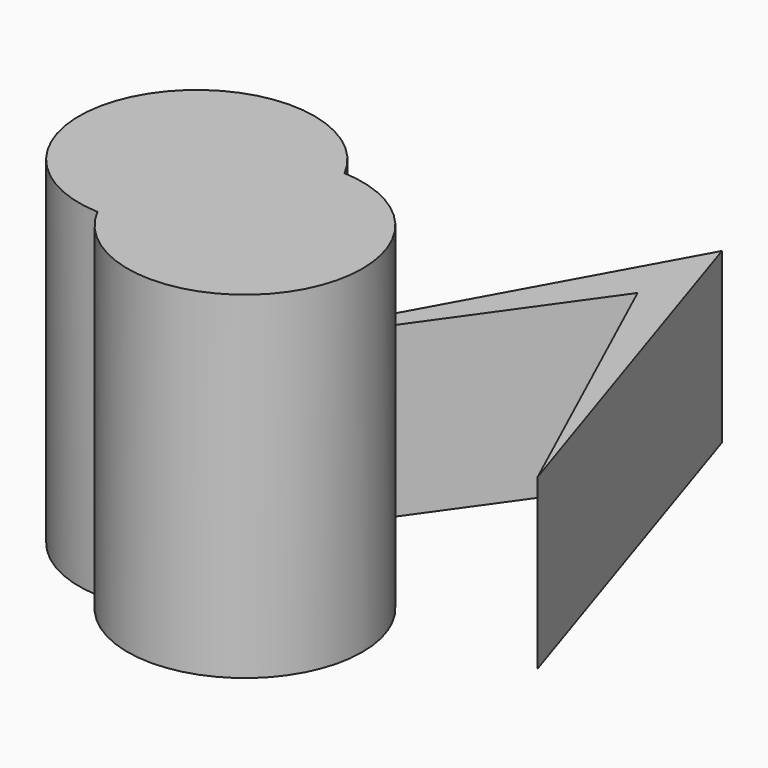
from build123d import *

# Parameters (mm, degrees)
F1_DEPTH = 25.4
F3_DEPTH = 25.4


with BuildPart() as f1:
    # F0 (on Top) → F1 (new body, symmetric)
    with BuildSketch(Plane.XY):
        with BuildLine():
            ThreePointArc((-0.801998148, -17.6953381212), (19.0800418459, -26.7126612322), (32.5603826172, -9.5403566957))
            ThreePointArc((32.5603826172, -9.5403566957), (27.683802609, 2.6512033834), (15.7445476087, 8.1164901805))
            ThreePointArc((15.7445476087, 8.1164901805), (17.2142279119, 4.1759489519), (17.7135031051, 0))
            ThreePointArc((17.7135031051, 0), (12.2385047201, -12.8057484931), (-0.801998148, -17.6953381212))
        make_face()
        with BuildLine():
            ThreePointArc((17.7135031051, 0), (17.2142279119, 4.1759489519), (15.7445476087, 8.1164901805))
            ThreePointArc((15.7445476087, 8.1164901805), (0, 0), (-0.801998148, -17.6953381212))
            ThreePointArc((-0.801998148, -17.6953381212), (12.2385047201, -12.8057484931), (17.7135031051, 0))
        make_face()
        with BuildLine():
            ThreePointArc((-0.801998148, -17.6953381212), (0, 0), (15.7445476087, 8.1164901805))
            ThreePointArc((15.7445476087, 8.1164901805), (-14.9124969796, 9.5595829453), (-0.801998148, -17.6953381212))
        make_face()
    extrude(amount=F1_DEPTH, both=True)

    # F2 (on Top) → F3 (join)
    with BuildSketch(Plane.XY):
        Polygon((0, 0), (31.1958193779, 43.9441055059), (51.2931197882, 0), (32.2551876307, 58.4832206368), align=None)
    extrude(amount=-F3_DEPTH)


solid = f1.part
